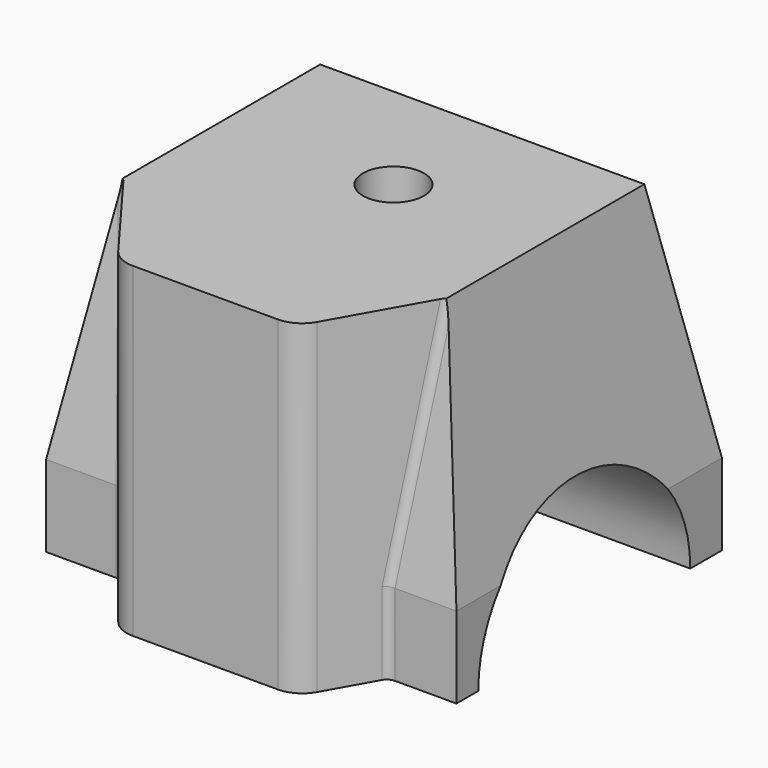
from build123d import *

# Parameters (mm, degrees)
F0_W           = 127.9716864228
F0_H           = 103.479269892
F1_DEPTH       = 25.4
F1_FACE_W      = 127.9716864228
F1_FACE_H      = 103.479269892
F1_FACE1_W     = 127.9716864228
F1_FACE1_H     = 103.479269892
F2_DEPTH       = 76.2
F2_TAPER       = 10
F3_R           = 41.3158420999
F4_DEPTH       = 76.2
F6_D           = 12.7
F6_CBORE_D     = 19.05
F6_CBORE_DEPTH = 12.7
F8_DEPTH       = 101.6
F9_R           = 3.175
F10_R          = 3.175


with BuildPart() as f1:
    # F0 (on Top) → F1 (new body)
    with BuildSketch(Plane.XY):
        with Locations((-2.9518865049, -0.0131409615)):
            Rectangle(F0_W, F0_H)
    extrude(amount=F1_DEPTH)

    # F1_face (on face) + F1_face1 (on face) → F2 (join)
    with BuildSketch(Plane(origin=(-2.9518865049, -0.0131409615, 25.4), x_dir=(1, 0, 0), z_dir=(0, 0, 1))):
        Rectangle(F1_FACE_W, F1_FACE_H)
    with BuildSketch(Plane(origin=(-2.9518865049, -0.0131409615, 0), x_dir=(1, 0, 0), z_dir=(0, 0, -1))):
        Rectangle(F1_FACE1_W, F1_FACE1_H)
    extrude(amount=F2_DEPTH, taper=F2_TAPER, dir=(0, 0, 1))

    # F3 (on Right) → F4 (cut, symmetric)
    with BuildSketch(Plane.YZ):
        with Locations((-1.9303264562, 0)):
            Circle(F3_R)
    extrude(amount=F4_DEPTH, both=True, mode=Mode.SUBTRACT)

    # F6 (through all)
    with Locations(Plane.XY.offset(101.6)):
        with Locations((0, 0)):
            CounterBoreHole(F6_D / 2, F6_CBORE_D / 2, F6_CBORE_DEPTH)

    # F7 (on face) → F8 (join)
    with BuildSketch(Plane.XY.offset(101.6)):
        with BuildLine():
            Line((47.5978407765, -38.3166599775), (-53.5016137863, -38.3166599775))
            Line((-53.5016137863, -38.3166599775), (-30.4048839763, -69.3022799435))
            ThreePointArc((-30.4048839763, -69.3022799435), (-27.0403296326, -72.122907664), (-22.7680607757, -73.1347799301))
            Line((-22.7680607757, -73.1347799301), (22.4154582076, -73.1347799301))
            ThreePointArc((22.4154582076, -73.1347799301), (27.2213525546, -71.8334655106), (30.7140753293, -68.2850958411))
            Line((30.7140753293, -68.2850958411), (47.5978407765, -38.3166599775))
        make_face()
    extrude(amount=-F8_DEPTH)

    # F9
    f9_edges = [f1.edges().sort_by_distance(p)[0] for p in [
        (43.812988, -45.034718, 63.5),
        (40.028135, -51.752776, 12.7),
    ]]
    fillet(f9_edges, radius=F9_R)

    # F10
    f10_edges = [f1.edges().sort_by_distance(p)[0] for p in [
        (-48.493963, -45.034718, 63.5),
        (-43.486312, -51.752776, 12.7),
    ]]
    fillet(f10_edges, radius=F10_R)


solid = f1.part
